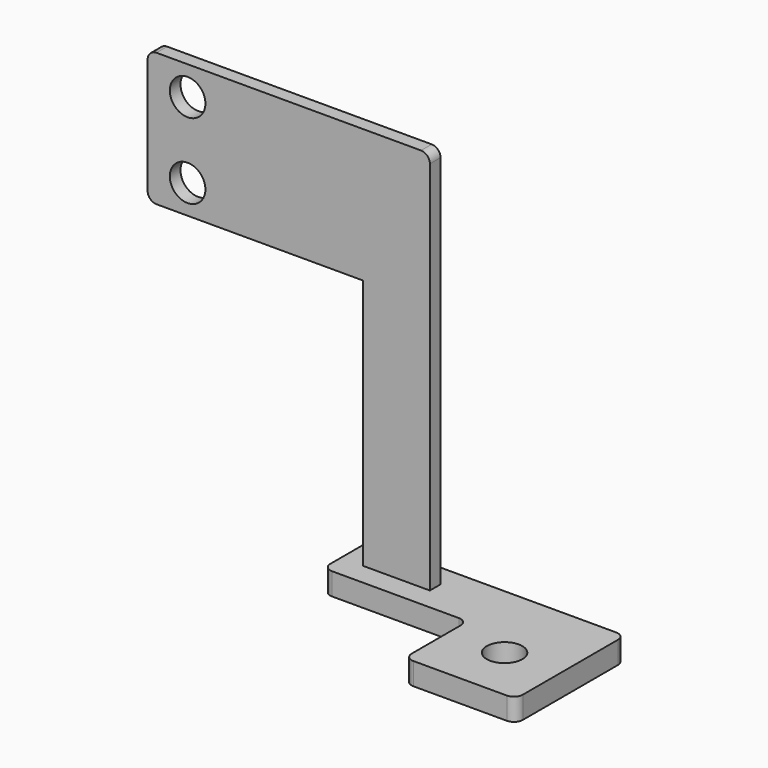
from build123d import *

# Parameters (mm, degrees)
F0_R     = 4
F0_W     = 15
F0_H     = 3
F1_DEPTH = 5
F2_R     = 4
F3_DEPTH = 3


with BuildPart() as f1:
    # F0 (on Top) → F1 (new body)
    with BuildSketch(Plane.XY):
        with BuildLine():
            ThreePointArc((95.5, -23), (96.085786, -24.414214), (97.5, -25))
            Line((97.5, -25), (118.5, -25))
            ThreePointArc((118.5, -25), (119.914214, -24.414214), (120.5, -23))
            Line((120.5, -23), (120.5, -7.25))
            Line((120.5, -7.25), (120.5, 3.75))
            ThreePointArc((120.5, 3.75), (119.914214, 5.164214), (118.5, 5.75))
            Line((118.5, 5.75), (65, 5.75))
            ThreePointArc((65, 5.75), (63.585786, 5.164214), (63, 3.75))
            Line((63, 3.75), (63, -5.25))
            ThreePointArc((63, -5.25), (63.585786, -6.664214), (65, -7.25))
            Line((65, -7.25), (93.5, -7.25))
            ThreePointArc((93.5, -7.25), (94.914214, -7.835786), (95.5, -9.25))
            Line((95.5, -9.25), (95.5, -23))
        make_face()
        with Locations((108, -12.5)):
            Circle(F0_R, mode=Mode.SUBTRACT)
        with Locations((75.5, -0.75)):
            Rectangle(F0_W, F0_H, mode=Mode.SUBTRACT)
    extrude(amount=F1_DEPTH)


with BuildPart() as f3:
    # F2 (on face) → F3 (new body)
    with BuildSketch(Plane.XZ.offset(-0.75)):
        with BuildLine():
            Line((68, 61.5), (68, 0))
            Line((68, 0), (83, 0))
            Line((83, 0), (83, 89.5))
            ThreePointArc((83, 89.5), (82.414214, 90.914214), (81, 91.5))
            Line((81, 91.5), (53, 91.5))
            Line((53, 91.5), (21.5, 91.5))
            ThreePointArc((21.5, 91.5), (20.085786, 90.914214), (19.5, 89.5))
            Line((19.5, 89.5), (19.5, 63.5))
            ThreePointArc((19.5, 63.5), (20.085786, 62.085786), (21.5, 61.5))
            Line((21.5, 61.5), (68, 61.5))
        make_face()
        with Locations((28.5, 68)):
            Circle(F2_R, mode=Mode.SUBTRACT)
        with Locations((28.5, 85)):
            Circle(F2_R, mode=Mode.SUBTRACT)
    extrude(amount=F3_DEPTH)


solid = Compound([f1.part, f3.part])
